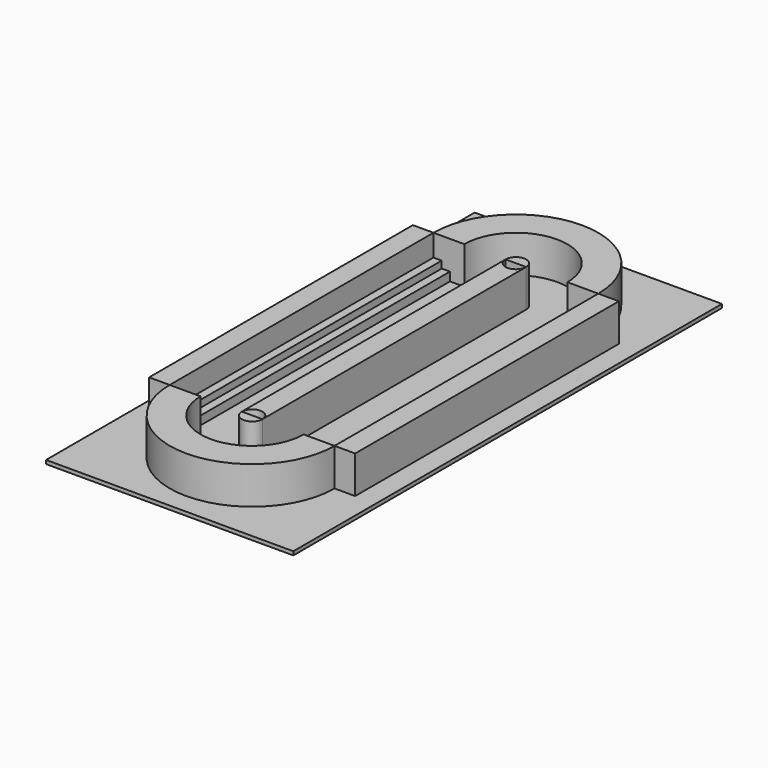
from build123d import *

# Parameters (mm, degrees)
F2_DEPTH = 10
F0_W     = 5
F0_H     = 80
F3_W     = 25
F3_H     = 60
F4_DEPTH = 0.9
F5_W     = 4
F5_H     = 80
F6_DEPTH = 2.1
F5_H_2   = 80.0040699542
F8_W     = 2
F8_H     = 80
F9_DEPTH = 1.7
F7_W     = 2
F7_H     = 80.0040699542


with BuildPart() as f2:
    # F0 (on Top) → F2 (new body)
    with BuildSketch(Plane.XY):
        with BuildLine():
            ThreePointArc((-12.5, 40), (0, 52.5), (12.5, 40))
            Line((12.5, 40), (20, 40))
            ThreePointArc((20, 40), (0, 60), (-20, 40))
            Line((-20, 40), (-12.5, 40))
        make_face()
    extrude(amount=F2_DEPTH)


with BuildPart() as f2b:
    # F0 (on Top) → F2, piece 2 (new body)
    with BuildSketch(Plane.XY):
        with BuildLine():
            ThreePointArc((-20, -40), (0, -60), (20, -40))
            Line((20, -40), (14.4638279453, -40))
            Line((14.4638279453, -40), (12.5, -40))
            ThreePointArc((12.5, -40), (0, -52.5), (-12.5, -40))
            Line((-12.5, -40), (-20, -40))
        make_face()
    extrude(amount=F2_DEPTH)


with BuildPart() as f2c:
    # F0 (on Top) → F2, piece 3 (new body)
    with BuildSketch(Plane.XY):
        with Locations((22.5, 0)):
            Rectangle(F0_W, F0_H)
    extrude(amount=F2_DEPTH)


with BuildPart() as f2d:
    # F0 (on Top) → F2, piece 4 (new body)
    with BuildSketch(Plane.XY):
        with Locations((-22.5, 0)):
            Rectangle(F0_W, F0_H)
    extrude(amount=F2_DEPTH)


with BuildPart() as f2e:
    # F1 (on Top) → F2, piece 5 (new body)
    with BuildSketch(Plane.XY):
        with BuildLine():
            ThreePointArc((2.5, 40), (1.767766953, 38.232233047), (0, 37.5))
            ThreePointArc((0, 37.5), (-1.767766953, 38.232233047), (-2.5, 40))
            Line((-2.5, 40), (-2.5, -40))
            ThreePointArc((-2.5, -40), (0, -37.5), (2.5, -40))
            Line((2.5, -40), (2.5, 40))
        make_face()
    extrude(amount=F2_DEPTH)


with BuildPart() as f2f:
    # F1 (on Top) → F2, piece 6 (new body)
    with BuildSketch(Plane.XY):
        with BuildLine():
            Line((0, -40), (-2.5, -40))
            ThreePointArc((-2.5, -40), (0, -42.5), (2.5, -40))
            Line((2.5, -40), (0, -40))
        make_face()
    extrude(amount=F2_DEPTH)


with BuildPart() as f2g:
    # F1 (on Top) → F2, piece 7 (new body)
    with BuildSketch(Plane.XY):
        with BuildLine():
            Line((-2.5, 40), (0, 40))
            Line((0, 40), (2.5, 40))
            ThreePointArc((2.5, 40), (0, 42.5), (-2.5, 40))
        make_face()
    extrude(amount=F2_DEPTH)


with BuildPart() as f4:
    # F3 (on Top) → F4 (new body)
    with BuildSketch(Plane.XY):
        Polygon((25, 60), (25, 0), (30, 0), (30, 65), (25, 65), (0, 65), (0, 60), align=None)
        Polygon((30, 0), (25, 0), (25, -60), (0, -60), (-25, -60), (-25, 0), (-25, 60), (0, 60), (0, 65), (-25, 65), (-30, 65), (-30, -65), (-25, -65), (30, -65), align=None)
        with Locations((-12.5, -30)):
            Rectangle(F3_W, F3_H)
        with Locations((-12.5, 30)):
            Rectangle(F3_W, F3_H)
        with Locations((12.5, 30)):
            Rectangle(F3_W, F3_H)
        with Locations((12.5, -30)):
            Rectangle(F3_W, F3_H)
    extrude(amount=F4_DEPTH)


with BuildPart() as f6:
    # F5 (on face) → F6 (new body)
    with BuildSketch(Plane.XY.offset(0.9)):
        with Locations((18.247112304, 0.1008854806)):
            Rectangle(F5_W, F5_H)
    extrude(amount=F6_DEPTH)


with BuildPart() as f6b:
    # F5 (on face) → F6, piece 2 (new body)
    with BuildSketch(Plane.XY.offset(0.9)):
        with Locations((-17.9971620888, -0.0043641776)):
            Rectangle(F5_W, F5_H_2)
    extrude(amount=F6_DEPTH)


with BuildPart() as f9:
    # F8 (on face) → F9 (new body)
    with BuildSketch(Plane.XY.offset(3)):
        with Locations((19.247112304, 0.1008854806)):
            Rectangle(F8_W, F8_H)
    extrude(amount=F9_DEPTH)


with BuildPart() as f9b:
    # F7 (on face) → F9, piece 2 (new body)
    with BuildSketch(Plane.XY.offset(3)):
        with Locations((-18.9971620888, -0.0043641776)):
            Rectangle(F7_W, F7_H)
    extrude(amount=F9_DEPTH)


solid = Compound([f2.part, f2b.part, f2c.part, f2d.part, f2e.part, f2f.part, f2g.part, f4.part, f6.part, f6b.part, f9.part, f9b.part])
